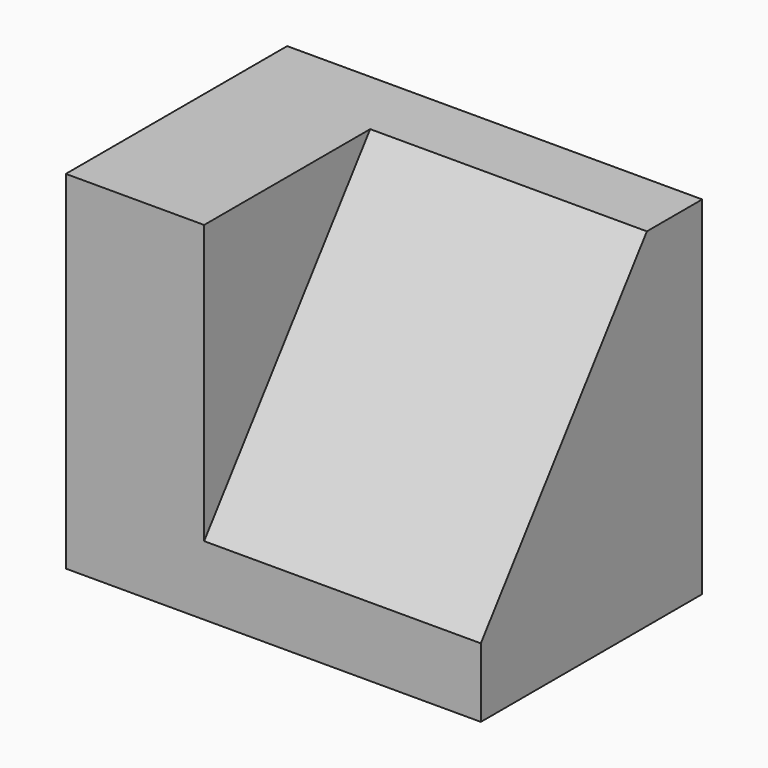
from build123d import *

# Parameters (mm, degrees)
F1_DEPTH = 38.1
F3_DEPTH = 12.7


with BuildPart() as f1:
    # F0 (on Right) → F1 (new body)
    with BuildSketch(Plane.YZ):
        Polygon((0, 6.35), (0, 0), (25.4, 0), (25.4, 31.901197), (19.05, 31.901197), align=None)
    extrude(amount=F1_DEPTH)

    # F2 (on face) → F3 (join)
    with BuildSketch(Plane(origin=(0, 0, 0), x_dir=(0, -1, 0), z_dir=(-1, 0, 0))):
        Polygon((0, 31.901197), (-19.05, 31.901197), (0, 6.35), align=None)
    extrude(amount=-F3_DEPTH)


solid = f1.part
